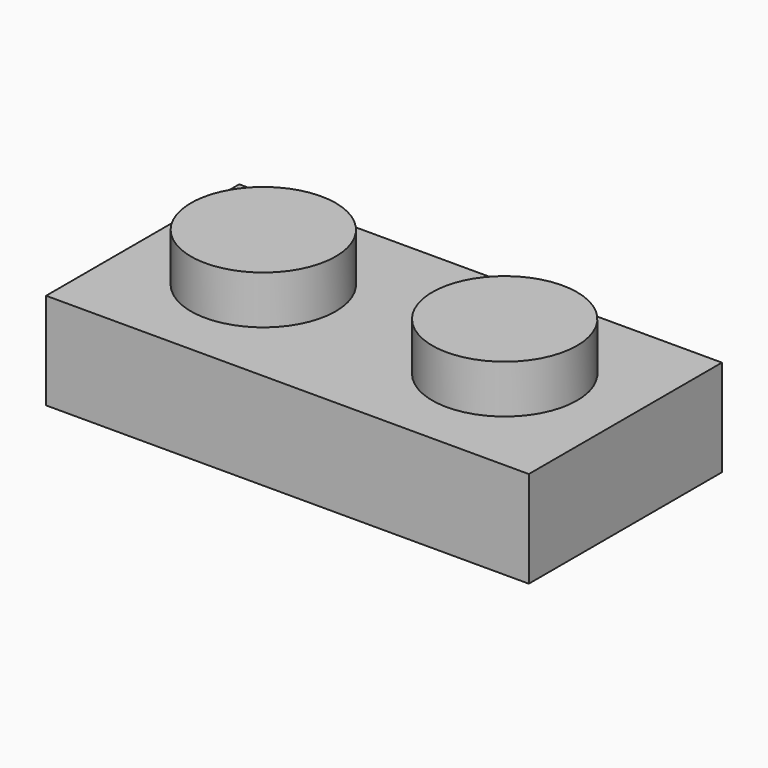
from build123d import *

# Parameters (mm, degrees)
F0_W     = 15.875
F0_H     = 7.9375
F0_R     = 2.38125
F1_DEPTH = 3.175
F2_DEPTH = 4.7625
F3_T     = -1.5875
F4_R     = 1.5875
F4_R_2   = 0.79375
F5_DEPTH = 1.5875


with BuildPart() as f1:
    # F0 (on Top) → F1 (new body)
    with BuildSketch(Plane.XY):
        Rectangle(F0_W, F0_H)
        with Locations((-3.96875, 0)):
            Circle(F0_R, mode=Mode.SUBTRACT)
        with Locations((3.96875, 0)):
            Circle(F0_R, mode=Mode.SUBTRACT)
    extrude(amount=F1_DEPTH)

    # F0 (on Top) → F2 (join)
    with BuildSketch(Plane.XY):
        with Locations((3.96875, 0)):
            Circle(F0_R)
        with Locations((-3.96875, 0)):
            Circle(F0_R)
    extrude(amount=F2_DEPTH)

    # F3
    f3_openings = [f1.faces().sort_by_distance(p)[0] for p in [
        (0, 0, 0),
    ]]
    offset(amount=F3_T, openings=f3_openings, kind=Kind.INTERSECTION)

    # F4 (on face) → F5 (join)
    with BuildSketch(Plane(origin=(0, 0, 1.5875), x_dir=(1, 0, 0), z_dir=(0, 0, -1))):
        Circle(F4_R)
        Circle(F4_R_2, mode=Mode.SUBTRACT)
    extrude(amount=F5_DEPTH)


solid = f1.part
